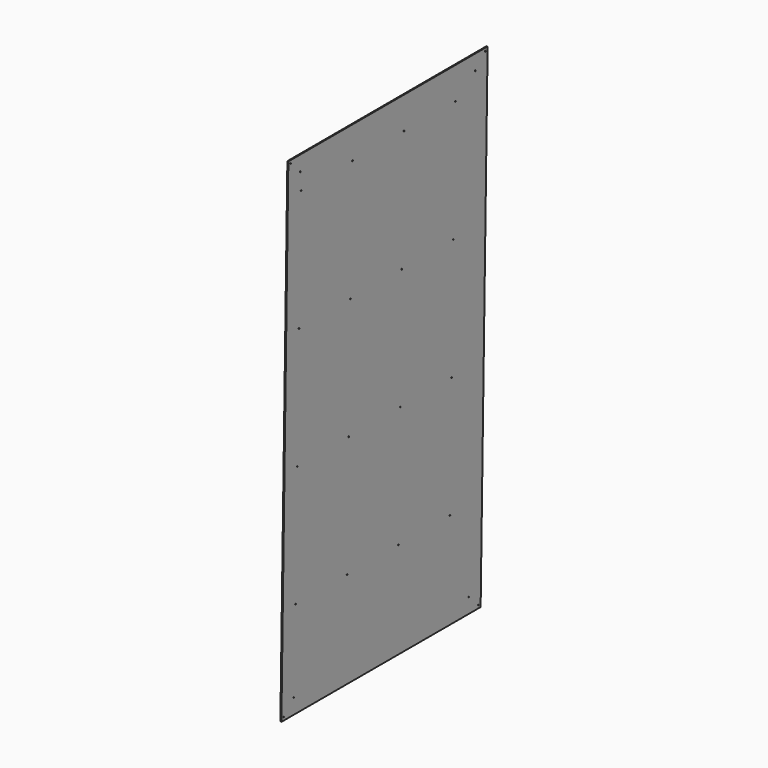
from build123d import *

# Parameters (mm, degrees)
F0_R     = 1.5875
F1_DEPTH = 3.175


with BuildPart() as f1:
    # F0 (on Right) → F1 (new body)
    with BuildSketch(Plane.YZ):
        Polygon((394.904423, 774.755306), (-392.495577, 774.755306), (-420.088613, -773.924664), (367.302939, -774.398824), align=None)
        with Locations((-410.392497, -764.405501)):
            Circle(F0_R, mode=Mode.SUBTRACT)
        with Locations((-371.608033, -726.32885)):
            Circle(F0_R, mode=Mode.SUBTRACT)
        with Locations((-363.850491, -469.158475)):
            Circle(F0_R, mode=Mode.SUBTRACT)
        with Locations((-160.650491, -469.28084)):
            Circle(F0_R, mode=Mode.SUBTRACT)
        with Locations((-357.06324, -88.218935)):
            Circle(F0_R, mode=Mode.SUBTRACT)
        with Locations((-153.86324, -88.28084)):
            Circle(F0_R, mode=Mode.SUBTRACT)
        with Locations((42.549509, -469.403205)):
            Circle(F0_R, mode=Mode.SUBTRACT)
        with Locations((320.519423, -726.745643)):
            Circle(F0_R, mode=Mode.SUBTRACT)
        with Locations((357.946236, -764.868188)):
            Circle(F0_R, mode=Mode.SUBTRACT)
        with Locations((245.749509, -469.52557)):
            Circle(F0_R, mode=Mode.SUBTRACT)
        with Locations((49.33676, -88.463665)):
            Circle(F0_R, mode=Mode.SUBTRACT)
        with Locations((252.53676, -88.58603)):
            Circle(F0_R, mode=Mode.SUBTRACT)
        with Locations((-350.342631, 292.781065)):
            Circle(F0_R, mode=Mode.SUBTRACT)
        with Locations((-147.142631, 292.71916)):
            Circle(F0_R, mode=Mode.SUBTRACT)
        with Locations((-342.11769, 673.781065)):
            Circle(F0_R, mode=Mode.SUBTRACT)
        with Locations((-383.138773, 765.230306)):
            Circle(F0_R, mode=Mode.SUBTRACT)
        with Locations((-345.711559, 727.130306)):
            Circle(F0_R, mode=Mode.SUBTRACT)
        with Locations((-138.91769, 673.630371)):
            Circle(F0_R, mode=Mode.SUBTRACT)
        with Locations((56.057369, 292.536335)):
            Circle(F0_R, mode=Mode.SUBTRACT)
        with Locations((259.257369, 292.41397)):
            Circle(F0_R, mode=Mode.SUBTRACT)
        with Locations((64.28231, 673.536335)):
            Circle(F0_R, mode=Mode.SUBTRACT)
        with Locations((267.48231, 673.41397)):
            Circle(F0_R, mode=Mode.SUBTRACT)
        with Locations((346.423324, 727.130306)):
            Circle(F0_R, mode=Mode.SUBTRACT)
        with Locations((385.208203, 765.230306)):
            Circle(F0_R, mode=Mode.SUBTRACT)
    extrude(amount=F1_DEPTH)


solid = f1.part
